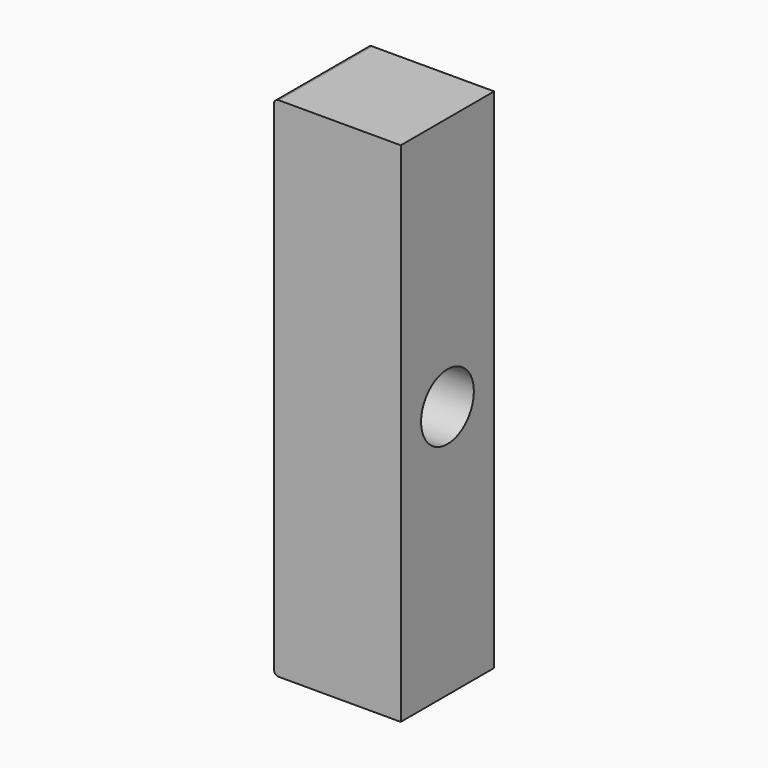
from build123d import *

# Parameters (mm, degrees)
F1_DEPTH = 2.921
F2_R     = 1.65
F3_DEPTH = 25.4
F4_W     = 8.591786
F4_H     = 32.204256
F5_DEPTH = 25.4
F6_R     = 0.254


with BuildPart() as f1:
    # F0 (on Front) → F1 (new body, symmetric)
    with BuildSketch(Plane.XZ):
        with BuildLine():
            Line((4.445, -12.7), (4.445, 12.7))
            Line((4.445, 12.7), (-4.445, 12.7))
            ThreePointArc((-4.445, 12.7), (-3.7846, 12.0396), (-4.445, 11.3792))
            Line((-4.445, 11.3792), (-4.445, 10.6934))
            ThreePointArc((-4.445, 10.6934), (-3.7846, 10.033), (-4.445, 9.3726))
            Line((-4.445, 9.3726), (-4.445, 8.6868))
            ThreePointArc((-4.445, 8.6868), (-3.7846, 8.0264), (-4.445, 7.366))
            Line((-4.445, 7.366), (-4.445, 6.6802))
            ThreePointArc((-4.445, 6.6802), (-3.7846, 6.0198), (-4.445, 5.3594))
            Line((-4.445, 5.3594), (-4.445, 4.6736))
            ThreePointArc((-4.445, 4.6736), (-3.7846, 4.0132), (-4.445, 3.3528))
            Line((-4.445, 3.3528), (-4.445, 2.667))
            ThreePointArc((-4.445, 2.667), (-3.7846, 2.0066), (-4.445, 1.3462))
            Line((-4.445, 1.3462), (-4.445, 0.6604))
            ThreePointArc((-4.445, 0.6604), (-3.7846, 0), (-4.445, -0.6604))
            Line((-4.445, -0.6604), (-4.445, -1.3462))
            ThreePointArc((-4.445, -1.3462), (-3.7846, -2.0066), (-4.445, -2.667))
            Line((-4.445, -2.667), (-4.445, -3.3528))
            ThreePointArc((-4.445, -3.3528), (-3.7846, -4.0132), (-4.445, -4.6736))
            Line((-4.445, -4.6736), (-4.445, -5.3594))
            ThreePointArc((-4.445, -5.3594), (-3.7846, -6.0198), (-4.445, -6.6802))
            Line((-4.445, -6.6802), (-4.445, -7.366))
            ThreePointArc((-4.445, -7.366), (-3.7846, -8.0264), (-4.445, -8.6868))
            Line((-4.445, -8.6868), (-4.445, -9.3726))
            ThreePointArc((-4.445, -9.3726), (-3.7846, -10.033), (-4.445, -10.6934))
            Line((-4.445, -10.6934), (-4.445, -11.3792))
            ThreePointArc((-4.445, -11.3792), (-3.7846, -12.0396), (-4.445, -12.7))
            Line((-4.445, -12.7), (4.445, -12.7))
        make_face()
        with BuildLine():
            ThreePointArc((-4.445, 11.3792), (-3.7846, 12.0396), (-4.445, 12.7))
            Line((-4.445, 12.7), (-4.445, 11.3792))
        make_face()
        with BuildLine():
            Line((-4.445, -11.5316), (-4.445, -12.7))
            ThreePointArc((-4.445, -12.7), (-3.7846, -12.0396), (-4.445, -11.3792))
            Line((-4.445, -11.3792), (-4.445, -11.5316))
        make_face()
        with BuildLine():
            ThreePointArc((-4.445, 9.3726), (-3.7846, 10.033), (-4.445, 10.6934))
            Line((-4.445, 10.6934), (-4.445, 10.541))
            Line((-4.445, 10.541), (-4.445, 9.3726))
        make_face()
        with BuildLine():
            Line((-4.445, -9.525), (-4.445, -10.6934))
            ThreePointArc((-4.445, -10.6934), (-3.7846, -10.033), (-4.445, -9.3726))
            Line((-4.445, -9.3726), (-4.445, -9.525))
        make_face()
        with BuildLine():
            ThreePointArc((-4.445, 7.366), (-3.7846, 8.0264), (-4.445, 8.6868))
            Line((-4.445, 8.6868), (-4.445, 8.5344))
            Line((-4.445, 8.5344), (-4.445, 7.366))
        make_face()
        with BuildLine():
            Line((-4.445, -7.5184), (-4.445, -8.6868))
            ThreePointArc((-4.445, -8.6868), (-3.7846, -8.0264), (-4.445, -7.366))
            Line((-4.445, -7.366), (-4.445, -7.5184))
        make_face()
        with BuildLine():
            ThreePointArc((-4.445, 5.3594), (-3.7846, 6.0198), (-4.445, 6.6802))
            Line((-4.445, 6.6802), (-4.445, 6.5278))
            Line((-4.445, 6.5278), (-4.445, 5.3594))
        make_face()
        with BuildLine():
            Line((-4.445, -5.5118), (-4.445, -6.6802))
            ThreePointArc((-4.445, -6.6802), (-3.7846, -6.0198), (-4.445, -5.3594))
            Line((-4.445, -5.3594), (-4.445, -5.5118))
        make_face()
        with BuildLine():
            ThreePointArc((-4.445, 3.3528), (-3.7846, 4.0132), (-4.445, 4.6736))
            Line((-4.445, 4.6736), (-4.445, 4.5212))
            Line((-4.445, 4.5212), (-4.445, 3.3528))
        make_face()
        with BuildLine():
            Line((-4.445, -3.5052), (-4.445, -4.6736))
            ThreePointArc((-4.445, -4.6736), (-3.7846, -4.0132), (-4.445, -3.3528))
            Line((-4.445, -3.3528), (-4.445, -3.5052))
        make_face()
        with BuildLine():
            ThreePointArc((-4.445, 1.3462), (-3.7846, 2.0066), (-4.445, 2.667))
            Line((-4.445, 2.667), (-4.445, 2.5146))
            Line((-4.445, 2.5146), (-4.445, 1.3462))
        make_face()
        with BuildLine():
            Line((-4.445, -1.4986), (-4.445, -2.667))
            ThreePointArc((-4.445, -2.667), (-3.7846, -2.0066), (-4.445, -1.3462))
            Line((-4.445, -1.3462), (-4.445, -1.4986))
        make_face()
        with BuildLine():
            ThreePointArc((-4.445, -0.6604), (-3.7846, 0), (-4.445, 0.6604))
            Line((-4.445, 0.6604), (-4.445, 0.508))
            Line((-4.445, 0.508), (-4.445, -0.6604))
        make_face()
    extrude(amount=F1_DEPTH, both=True)

    # F2 (on face) → F3 (cut)
    with BuildSketch(Plane.YZ.offset(4.445)):
        Circle(F2_R)
    extrude(amount=-F3_DEPTH, mode=Mode.SUBTRACT)

    # F4 (on face) → F5 (cut)
    with BuildSketch(Plane(origin=(0, 2.921, 0), x_dir=(-1, 0, 0), z_dir=(0, 1, 0))):
        with Locations((-6.200893, 0)):
            Rectangle(F4_W, F4_H)
    extrude(amount=-F5_DEPTH, mode=Mode.SUBTRACT)

    # F6
    f6_edges = [f1.edges().sort_by_distance(p)[0] for p in [
        (-4.445, 0, 12.7),
        (-4.445, 0, -12.7),
    ]]
    fillet(f6_edges, radius=F6_R)


solid = f1.part
